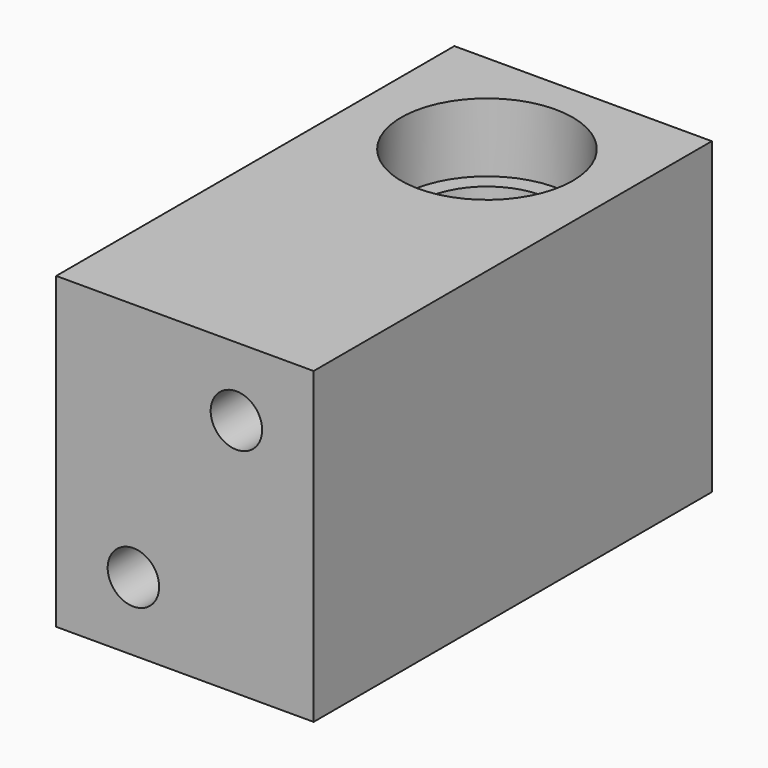
from build123d import *

# Parameters (mm, degrees)
CYLINDER095_R      = 1.5
CYLINDER095_DEPTH  = 21
CYLINDER094_R      = 1.5
CYLINDER094_DEPTH  = 21
CYLINDER085_R      = 4
CYLINDER085_DEPTH  = 19
CYLINDER087_R      = 5
CYLINDER087_DEPTH  = 4
CYLINDER086_R      = 5
CYLINDER086_DEPTH  = 4
BOX406008013_W     = 15
BOX406008013_H     = 29
BOX406008013_DEPTH = 18


with BuildPart() as cylinder095:
    # Cylinder095 → Cylinder095 (new body)
    with BuildSketch(Plane(origin=(3, -13, -4), x_dir=(1, 0, 0), z_dir=(0, -1, 0))):
        Circle(CYLINDER095_R)
    extrude(amount=CYLINDER095_DEPTH)


with BuildPart() as fusion103077013004017014:
    # Cylinder094 → Cylinder094 (new body)
    with BuildSketch(Plane(origin=(-3, -13, -14), x_dir=(1, 0, 0), z_dir=(0, -1, 0))):
        Circle(CYLINDER094_R)
    extrude(amount=CYLINDER094_DEPTH)

    # Fusion103077013004017014: union Cylinder095
    add(cylinder095.part)


with BuildPart() as cylinder081:
    # Cylinder085 → Cylinder085 (new body)
    with BuildSketch(Plane.XY.offset(-17)):
        Circle(CYLINDER085_R)
    extrude(amount=CYLINDER085_DEPTH)


with BuildPart() as f_623_bearing003:
    # Cylinder087 → Cylinder087 (new body)
    with BuildSketch(Plane.XY.offset(-18)):
        Circle(CYLINDER087_R)
    extrude(amount=CYLINDER087_DEPTH)


with BuildPart() as f_623_bearing_holes:
    # Cylinder086 → Cylinder086 (new body)
    with BuildSketch(Plane.XY.offset(-4)):
        Circle(CYLINDER086_R)
    extrude(amount=CYLINDER086_DEPTH)

    # Fusion103077013004017008: union 623 Bearing003
    add(f_623_bearing003.part)


with BuildPart() as cut088:
    # Box406008013 → Box406008013 (new body)
    with BuildSketch(Plane(origin=(-7.5, -22, -18), x_dir=(1, 0, 0), z_dir=(0, 0, 1))):
        with Locations((7.5, 14.5)):
            Rectangle(BOX406008013_W, BOX406008013_H)
    extrude(amount=BOX406008013_DEPTH)

    # Cut070: cut 623 Bearing Holes
    add(f_623_bearing_holes.part, mode=Mode.SUBTRACT)

    # Cut087: cut Cylinder081
    add(cylinder081.part, mode=Mode.SUBTRACT)

    # Cut088: cut Fusion103077013004017014
    add(fusion103077013004017014.part, mode=Mode.SUBTRACT)


solid = cut088.part
